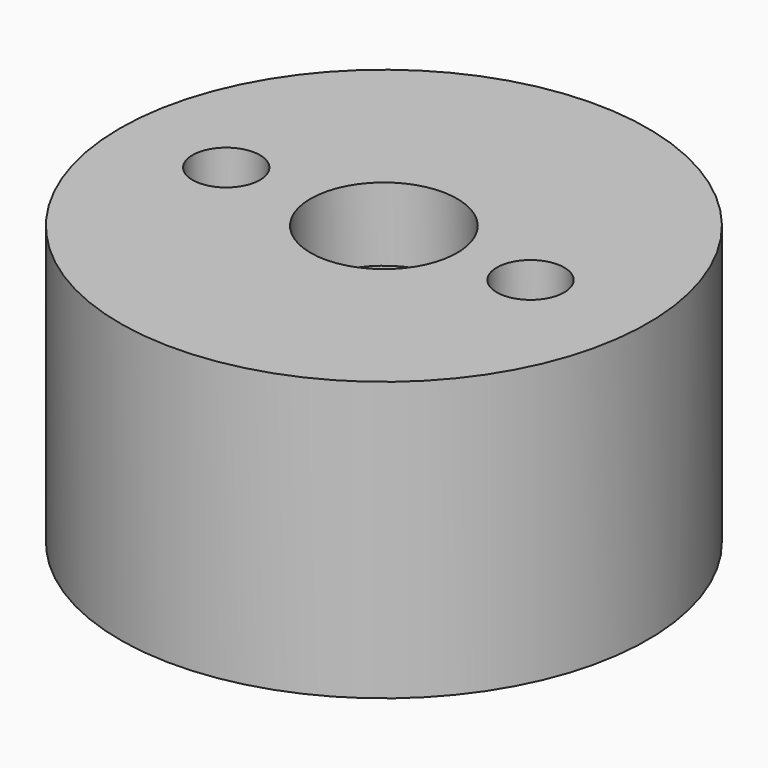
from build123d import *

# Parameters (mm, degrees)
F0_W     = 18.2879995555
F0_H     = 19.3040007725
F3_D     = 30.48
F3_DEPTH = 16.51
F3_TIP   = 9.157115834
F5_D     = 10.16
F7_D     = 4.6736
F9_D     = 4.6736


with BuildPart() as f1:
    # F0 (on Front) → F1 (revolve)
    with BuildSketch(Plane.XZ):
        with Locations((-9.1439997777, -4.5719998889)):
            Rectangle(F0_W, F0_H)
    revolve(axis=Axis((0, 0, -4.5719998889), (0, 0, -1)))

    # F3 (one way)
    with BuildSketch(Plane.XY):
        with Locations((0, 0)):
            Circle(F3_D / 2)
    extrude(amount=-F3_DEPTH, mode=Mode.SUBTRACT)
    with Locations(Plane.XY):
        with Locations((0, 0)):
            with Locations((0, 0, -(F3_DEPTH + F3_TIP / 2))):  # 118° drill point
                Cone(0, F3_D / 2, F3_TIP, mode=Mode.SUBTRACT)

    # F5 (through all)
    with Locations(Plane(origin=(0, 0, 0), x_dir=(1, 0, 0), z_dir=(0, 0, -1))):
        with Locations((0, 0)):
            Hole(F5_D / 2)

    # F7 (through all)
    with Locations(Plane(origin=(0, 0, 0), x_dir=(1, 0, 0), z_dir=(0, 0, -1))):
        with Locations((-10.9219979495, 0)):
            Hole(F7_D / 2)

    # F9 (through all)
    with Locations(Plane(origin=(0, 0, 0), x_dir=(1, 0, 0), z_dir=(0, 0, -1))):
        with Locations((10.1600009948, 0)):
            Hole(F9_D / 2)


solid = f1.part
